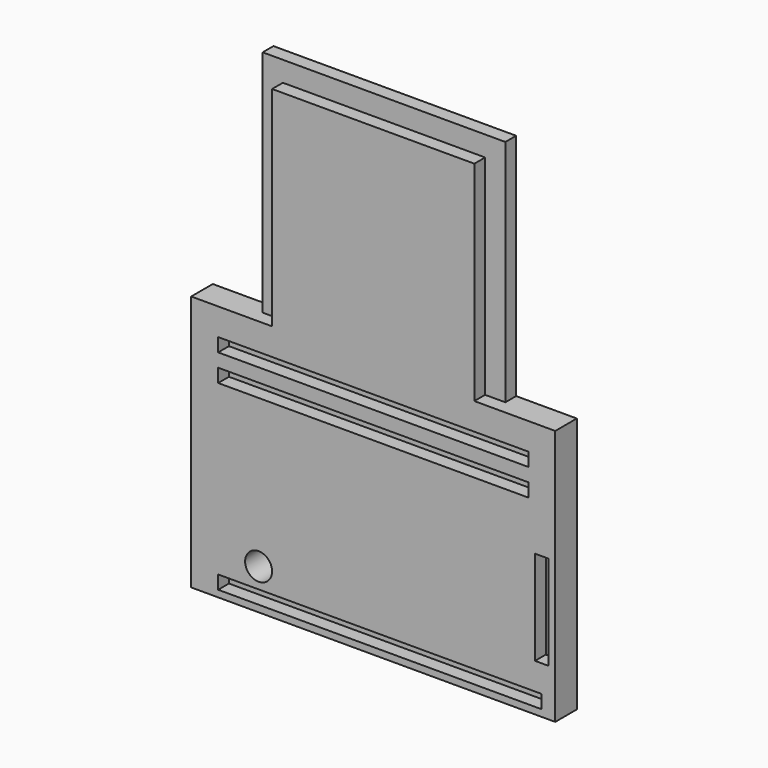
from build123d import *

# Parameters (mm, degrees)
F0_W      = 342.9
F0_H      = 177.8
F0_W_2    = 228.6
F0_H_2    = 215.9
F1_DEPTH  = 25.4
F2_W      = 304.8
F2_H      = 12.7
F3_DEPTH  = 12.7
F4_W      = 304.8
F4_H      = 12.7
F5_DEPTH  = 12.7
F6_R      = 12.7
F7_DEPTH  = 25.4
F9_DEPTH  = 12.7
F10_W     = 190.5
F10_H     = 19.05
F11_DEPTH = 12.7
F12_W     = 292.1
F12_H     = 12.7
F13_DEPTH = 12.7


with BuildPart() as f1:
    # F0 (on Front) → F1 (new body)
    with BuildSketch(Plane.XZ):
        with Locations((171.45, 88.9)):
            Rectangle(F0_W, F0_H)
        Polygon((0, 241.3), (0, 177.8), (342.9, 177.8), (342.9, 241.3), (285.75, 241.3), (57.15, 241.3), align=None)
        with Locations((171.45, 349.25)):
            Rectangle(F0_W_2, F0_H_2)
    extrude(amount=F1_DEPTH)

    # F2 (on face) → F3 (cut)
    with BuildSketch(Plane.XZ.offset(25.4)):
        with Locations((177.8, 12.7)):
            Rectangle(F2_W, F2_H)
    extrude(amount=-F3_DEPTH, mode=Mode.SUBTRACT)

    # F4 (on face) → F5 (cut)
    with BuildSketch(Plane.XZ.offset(25.4)):
        with Locations((177.8, -12.7)):
            Rectangle(F4_W, F4_H)
    extrude(amount=-F5_DEPTH, mode=Mode.SUBTRACT)

    # F6 (on face) → F7 (cut)
    with BuildSketch(Plane(origin=(0, 0, 0), x_dir=(-1, 0, 0), z_dir=(0, 1, 0))):
        with Locations((-63.5, 38.1)):
            Circle(F6_R)
    extrude(amount=-F7_DEPTH, mode=Mode.SUBTRACT)

    # F8 (on face) → F9 (cut)
    with BuildSketch(Plane.XZ.offset(25.4)):
        Polygon((323.85, 44.45), (330.2, 44.45), (336.55, 44.45), (336.55, 133.35), (323.85, 133.35), align=None)
    extrude(amount=-F9_DEPTH, mode=Mode.SUBTRACT)

    # F10 (on face) → F11 (cut)
    with BuildSketch(Plane.XZ.offset(25.4)):
        with Locations((171.45, 447.675)):
            Rectangle(F10_W, F10_H)
        Polygon((76.2, 438.15), (76.2, 457.2), (57.15, 457.2), (57.15, 241.3), (76.2, 241.3), align=None)
        Polygon((285.75, 241.3), (285.75, 457.2), (266.7, 457.2), (266.7, 438.15), (266.7, 241.3), align=None)
    extrude(amount=-F11_DEPTH, mode=Mode.SUBTRACT)

    # F12 (on face) → F13 (cut)
    with BuildSketch(Plane.XZ.offset(25.4)):
        with Locations((171.45, 209.55)):
            Rectangle(F12_W, F12_H)
        with Locations((171.45, 184.15)):
            Rectangle(F12_W, F12_H)
    extrude(amount=-F13_DEPTH, mode=Mode.SUBTRACT)


solid = f1.part
